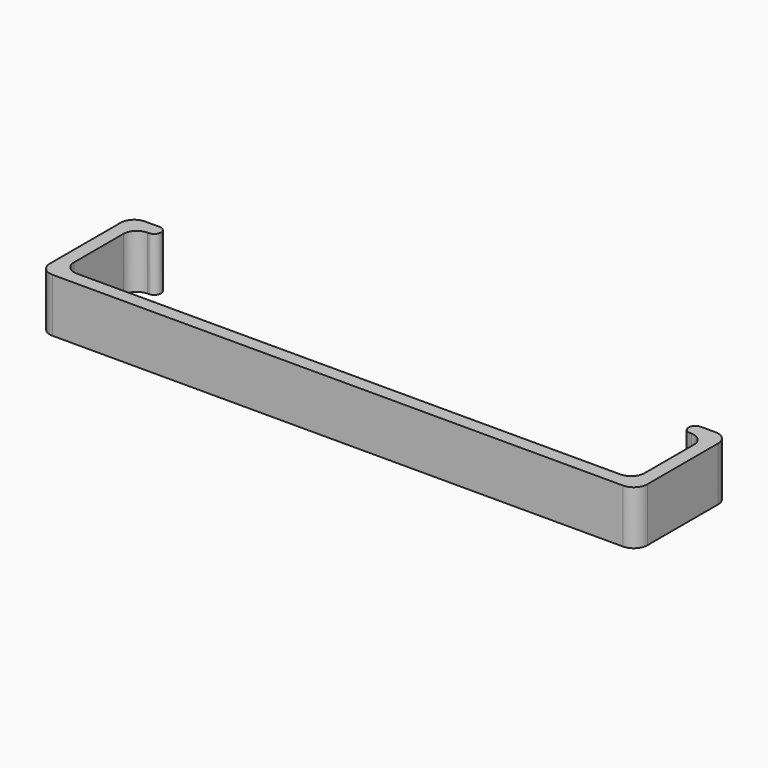
from build123d import *

# Parameters (mm, degrees)
F1_DEPTH = 10


with BuildPart() as f1:
    # F0 (on Top) → F1 (new body)
    with BuildSketch(Plane.XY):
        with BuildLine():
            Line((50.6, 0), (0, 0))
            Line((0, 0), (-50.6, 0))
            ThreePointArc((-50.6, 0), (-52.367767, 0.732233), (-53.1, 2.5))
            Line((-53.1, 2.5), (-53.1, 14))
            ThreePointArc((-53.1, 14), (-52.367767, 15.767767), (-50.6, 16.5))
            Line((-50.6, 16.5), (-50.35, 16.5))
            ThreePointArc((-50.35, 16.5), (-49.108107, 17.75), (-50.35, 19))
            Line((-50.35, 19), (-53.1, 19))
            ThreePointArc((-53.1, 19), (-54.867767, 18.267767), (-55.6, 16.5))
            Line((-55.6, 16.5), (-55.6, 0))
            ThreePointArc((-55.6, 0), (-54.867767, -1.767767), (-53.1, -2.5))
            Line((-53.1, -2.5), (0, -2.5))
            Line((0, -2.5), (53.1, -2.5))
            ThreePointArc((53.1, -2.5), (54.867767, -1.767767), (55.6, 0))
            Line((55.6, 0), (55.6, 16.5))
            ThreePointArc((55.6, 16.5), (54.867767, 18.267767), (53.1, 19))
            Line((53.1, 19), (50.35, 19))
            ThreePointArc((50.35, 19), (49.1, 17.75), (50.35, 16.5))
            Line((50.35, 16.5), (50.6, 16.5))
            ThreePointArc((50.6, 16.5), (52.367767, 15.767767), (53.1, 14))
            Line((53.1, 14), (53.1, 2.5))
            ThreePointArc((53.1, 2.5), (52.367767, 0.732233), (50.6, 0))
        make_face()
    extrude(amount=F1_DEPTH)


solid = f1.part
